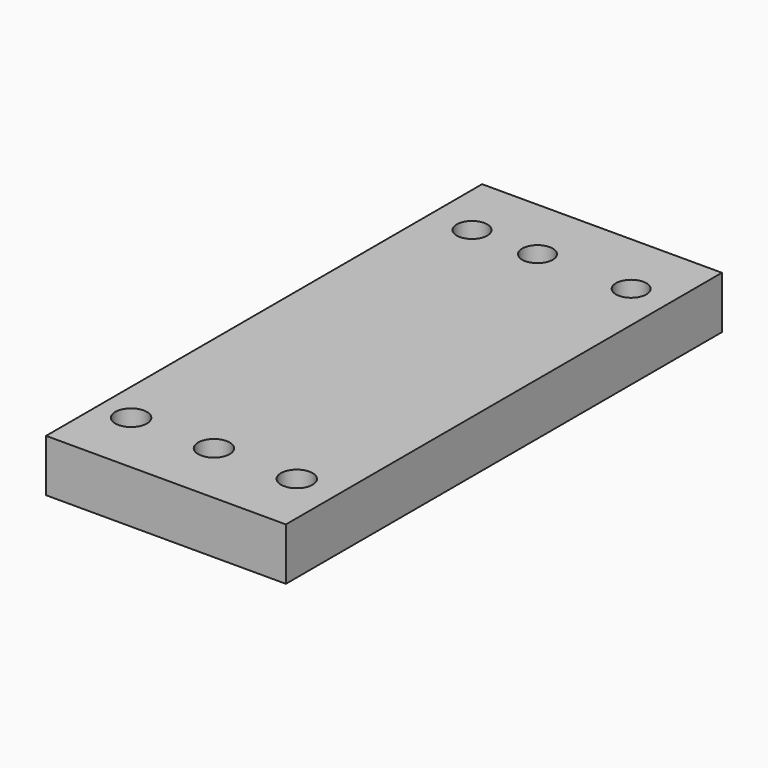
from build123d import *

# Parameters (mm, degrees)
F0_W     = 27.94
F0_H     = 63.5
F0_R     = 1.8415
F0_R_2   = 1.778
F1_DEPTH = 6.096


with BuildPart() as f1:
    # F0 (on Top) → F1 (new body)
    with BuildSketch(Plane.XY):
        with Locations((13.97, 31.75)):
            Rectangle(F0_W, F0_H)
        with Locations((3.81, 7.62)):
            Circle(F0_R, mode=Mode.SUBTRACT)
        with Locations((13.462, 7.62)):
            Circle(F0_R, mode=Mode.SUBTRACT)
        with Locations((23.114, 7.62)):
            Circle(F0_R, mode=Mode.SUBTRACT)
        with Locations((4.926511, 55.88)):
            Circle(F0_R_2, mode=Mode.SUBTRACT)
        with Locations((12.546511, 55.88)):
            Circle(F0_R_2, mode=Mode.SUBTRACT)
        with Locations((23.468511, 55.88)):
            Circle(F0_R_2, mode=Mode.SUBTRACT)
    extrude(amount=F1_DEPTH)


solid = f1.part
